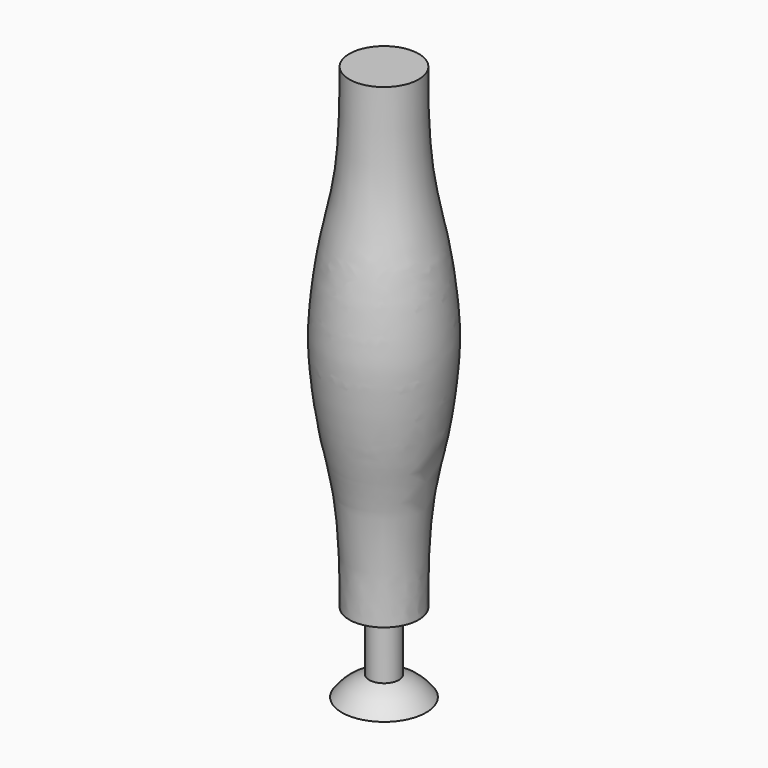
from build123d import *


with BuildPart() as f1:
    # F0 (on Front) → F1 (revolve)
    with BuildSketch(Plane.XZ):
        with BuildLine():
            Line((-152.4, 812.8), (0, 812.8))
            Line((0, 812.8), (0, 1422.4))
            Line((0, 1422.4), (-88.9, 1422.4))
            add(Edge.make_bspline(
                [(-88.9, 1422.4), (-88.9, 1364.4953521068), (-90.4336608481, 1180.9571604387), (-135.8498830963, 1026.6342567588), (-152.4, 864.4487990994), (-152.4, 812.8)],
                knots=[0, 0, 0, 0, 0.3538445866, 0.6676004749, 1, 1, 1, 1], degree=3))
        make_face()
        with BuildLine():
            Line((-38.1, 0), (0, 0))
            Line((0, 0), (0, 812.8))
            Line((0, 812.8), (-152.4, 812.8))
            add(Edge.make_bspline(
                [(-88.9, 203.2), (-88.9, 261.1046478932), (-90.4336608481, 444.6428395613), (-135.8498830963, 598.9657432412), (-152.4, 761.1512009006), (-152.4, 812.8)],
                knots=[0, 0, 0, 0, 0.3538445866, 0.6676004749, 1, 1, 1, 1], degree=3))
            Line((-88.9, 203.2), (-38.1, 203.2))
            Line((-38.1, 203.2), (-38.1, 50.8))
            Line((-38.1, 50.8), (-38.1, 0))
        make_face()
        with BuildLine():
            Line((-107.95, 0), (-38.1, 0))
            Line((-38.1, 0), (-38.1, 50.8))
            ThreePointArc((-38.1, 50.8), (-77.316302453, 31.3005408728), (-107.95, 0))
        make_face()
    revolve(axis=Axis((0, 0, 711.2), (0, 0, 1)))


solid = f1.part
